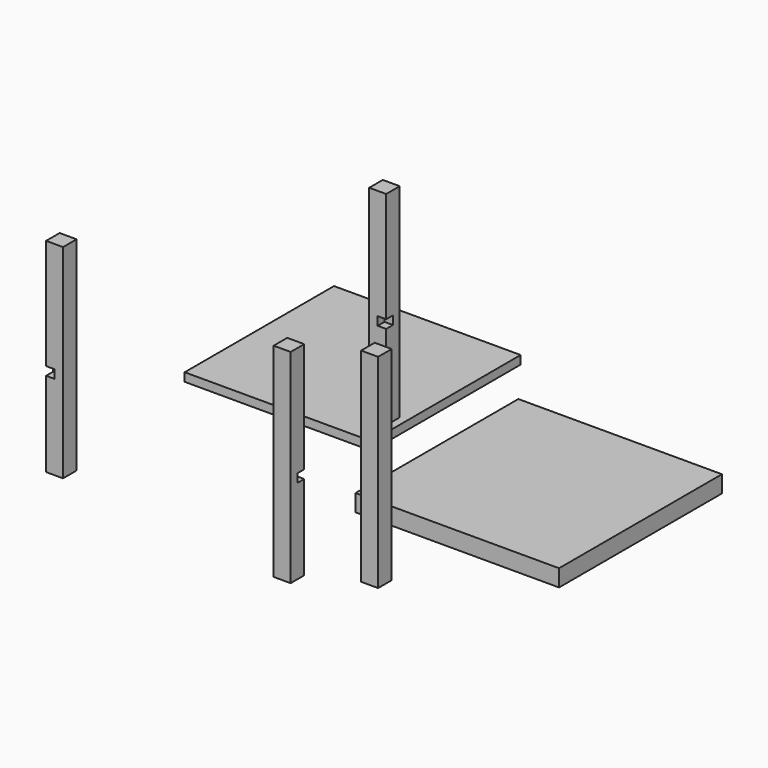
from build123d import *

# Parameters (mm, degrees)
F0_W      = 25.4
F0_H      = 25.4
F0_W_2    = 50.8
F0_W_3    = 457.2
F0_H_2    = 50.8
F0_H_3    = 457.2
F1_DEPTH  = 50.8
F2_DEPTH  = 38.1
F3_DEPTH  = 38.1
F4_DEPTH  = 38.1
F5_DEPTH  = 38.1
F6_W      = 25.4
F6_H      = 25.4
F7_DEPTH  = 609.6
F8_W      = 25.4
F8_H      = 25.4
F9_DEPTH  = 609.6
F10_DEPTH = 609.6
F11_W     = 25.4
F11_H     = 25.4
F12_DEPTH = 609.6
F13_W     = 25.4
F13_H     = 25.4
F14_DEPTH = 609.6
F15_DEPTH = 609.6
F16_W     = 558.8
F16_H     = 558.8
F17_DEPTH = 25.4
F18_W     = 25.4
F18_H     = 25.4
F19_DEPTH = 25.4
F21_W     = 25.4
F21_H     = 25.4
F22_DEPTH = 25.4
F24_W     = 25.4
F24_H     = 25.4
F25_DEPTH = 25.4
F27_W     = 25.4
F27_H     = 25.4
F28_DEPTH = 25.4
F29_ANGLE = 45
F30_DEPTH = 25.4
F31_DEPTH = 25.4
F32_ANGLE = 90
F33_ANGLE = 135


with BuildPart() as f1:
    # F0 (on Top) → F1 (new body)
    with BuildSketch(Plane.XY):
        with Locations((-284.6480894744, 419.2517064326)):
            Rectangle(F0_W, F0_H)
        with Locations((299.5519105256, 419.2517064326)):
            Rectangle(F0_W, F0_H)
        with Locations((-284.6480894744, -164.9482935674)):
            Rectangle(F0_W, F0_H)
        with Locations((299.5519105256, -164.9482935674)):
            Rectangle(F0_W, F0_H)
        with Locations((-246.5480894744, 419.2517064326)):
            Rectangle(F0_W_2, F0_H)
        with Locations((7.4519105256, 419.2517064326)):
            Rectangle(F0_W_3, F0_H)
        with Locations((261.4519105256, 419.2517064326)):
            Rectangle(F0_W_2, F0_H)
        with Locations((-246.5480894744, -164.9482935674)):
            Rectangle(F0_W_2, F0_H)
        with Locations((7.4519105256, -164.9482935674)):
            Rectangle(F0_W_3, F0_H)
        with Locations((261.4519105256, -164.9482935674)):
            Rectangle(F0_W_2, F0_H)
        with Locations((-284.6480894744, 381.1517064326)):
            Rectangle(F0_W, F0_H_2)
        with Locations((-284.6480894744, 127.1517064326)):
            Rectangle(F0_W, F0_H_3)
        with Locations((-284.6480894744, -126.8482935674)):
            Rectangle(F0_W, F0_H_2)
        with Locations((299.5519105256, 381.1517064326)):
            Rectangle(F0_W, F0_H_2)
        with Locations((299.5519105256, 127.1517064326)):
            Rectangle(F0_W, F0_H_3)
        with Locations((299.5519105256, -126.8482935674)):
            Rectangle(F0_W, F0_H_2)
        with Locations((-246.5480894744, 127.1517064326)):
            Rectangle(F0_W_2, F0_H_3)
        with Locations((7.4519105256, 381.1517064326)):
            Rectangle(F0_W_3, F0_H_2)
        with Locations((261.4519105256, 127.1517064326)):
            Rectangle(F0_W_2, F0_H_3)
        with Locations((-246.5480894744, 381.1517064326)):
            Rectangle(F0_W_2, F0_H_2)
        with Locations((-246.5480894744, -126.8482935674)):
            Rectangle(F0_W_2, F0_H_2)
        with Locations((7.4519105256, 127.1517064326)):
            Rectangle(F0_W_3, F0_H_3)
        with Locations((7.4519105256, -126.8482935674)):
            Rectangle(F0_W_3, F0_H_2)
        with Locations((261.4519105256, -126.8482935674)):
            Rectangle(F0_W_2, F0_H_2)
        with Locations((261.4519105256, 381.1517064326)):
            Rectangle(F0_W_2, F0_H_2)
    extrude(amount=F1_DEPTH)

    # F0 (on Top) → F2 (cut)
    with BuildSketch(Plane.XY):
        with Locations((-246.5480894744, -126.8482935674)):
            Rectangle(F0_W_2, F0_H_2)
    extrude(amount=-F2_DEPTH, mode=Mode.SUBTRACT)

    # F0 (on Top) → F3 (cut)
    with BuildSketch(Plane.XY):
        with Locations((-246.5480894744, -126.8482935674)):
            Rectangle(F0_W_2, F0_H_2)
    extrude(amount=F3_DEPTH, mode=Mode.SUBTRACT)

    # F0 (on Top) → F4 (cut)
    with BuildSketch(Plane.XY):
        with Locations((261.4519105256, -126.8482935674)):
            Rectangle(F0_W_2, F0_H_2)
    extrude(amount=F4_DEPTH, mode=Mode.SUBTRACT)

    # F0 (on Top) → F5 (cut)
    with BuildSketch(Plane.XY):
        with Locations((-246.5480894744, 381.1517064326)):
            Rectangle(F0_W_2, F0_H_2)
    extrude(amount=F5_DEPTH, mode=Mode.SUBTRACT)

    # F0 (on Top) → F30 (join)
    with BuildSketch(Plane.XY):
        with Locations((261.4519105256, 381.1517064326)):
            Rectangle(F0_W_2, F0_H_2)
    extrude(amount=F30_DEPTH)

    # F0 (on Top) → F31 (cut)
    with BuildSketch(Plane.XY):
        with Locations((261.4519105256, 381.1517064326)):
            Rectangle(F0_W_2, F0_H_2)
    extrude(amount=F31_DEPTH, mode=Mode.SUBTRACT)


with BuildPart() as f7:
    # F6 (on face) → F7 (new body)
    with BuildSketch(Plane.XY.offset(50.8)):
        with Locations((-493.6751659632, 173.1995851017)):
            Rectangle(F6_W, F6_H)
        with Locations((-468.2751659632, 173.1995851017)):
            Rectangle(F6_W, F6_H)
        with Locations((-493.6751659632, 147.7995851017)):
            Rectangle(F6_W, F6_H)
        with Locations((-468.2751659632, 147.7995851017)):
            Rectangle(F6_W, F6_H)
    extrude(amount=F7_DEPTH)

    # F27 (on offset) → F28 (cut)
    with BuildSketch(Plane.YZ.offset(-455.5751659632)):
        with Locations((147.7995851017, 317.5)):
            Rectangle(F27_W, F27_H)
    extrude(amount=-F28_DEPTH, mode=Mode.SUBTRACT)


with BuildPart() as f9:
    # F8 (on Top) → F9 (new body)
    with BuildSketch(Plane.XY):
        with Locations((-229.513236475, -514.6153616277)):
            Rectangle(F8_W, F8_H)
        with Locations((-204.113236475, -514.6153616277)):
            Rectangle(F8_W, F8_H)
    extrude(amount=F9_DEPTH)

    # F8 (on Top) → F10 (join)
    with BuildSketch(Plane.XY):
        with Locations((-229.513236475, -514.6153616277)):
            Rectangle(F8_W, F8_H)
        with Locations((-204.113236475, -514.6153616277)):
            Rectangle(F8_W, F8_H)
        with Locations((-229.513236475, -540.0153616277)):
            Rectangle(F8_W, F8_H)
        with Locations((-204.113236475, -540.0153616277)):
            Rectangle(F8_W, F8_H)
    extrude(amount=F10_DEPTH)

    # F21 (on offset) → F22 (cut)
    with BuildSketch(Plane.YZ.offset(-191.413236475)):
        with Locations((-514.6153616277, 266.7)):
            Rectangle(F21_W, F21_H)
    extrude(amount=-F22_DEPTH, mode=Mode.SUBTRACT)


with BuildPart() as f12:
    # F11 (on Top) → F12 (new body)
    with BuildSketch(Plane.XY):
        with Locations((-976.6431536198, -508.7043218727)):
            Rectangle(F11_W, F11_H)
        with Locations((-951.2431536198, -508.7043218727)):
            Rectangle(F11_W, F11_H)
        with Locations((-976.6431536198, -483.3043218727)):
            Rectangle(F11_W, F11_H)
        with Locations((-951.2431536198, -483.3043218727)):
            Rectangle(F11_W, F11_H)
    extrude(amount=F12_DEPTH)

    # F18 (on face) → F19 (cut)
    with BuildSketch(Plane.YZ.offset(-938.5431536198)):
        with Locations((-508.7043218727, 266.7)):
            Rectangle(F18_W, F18_H)
    extrude(amount=-F19_DEPTH, mode=Mode.SUBTRACT)


with BuildPart() as f14:
    # F13 (on Top) → F14 (new body)
    with BuildSketch(Plane.XY):
        with Locations((-18.407859993, -391.3383118198)):
            Rectangle(F13_W, F13_H)
        with Locations((6.992140007, -391.3383118198)):
            Rectangle(F13_W, F13_H)
        with Locations((-18.407859993, -416.7383118198)):
            Rectangle(F13_W, F13_H)
        with Locations((6.992140007, -416.7383118198)):
            Rectangle(F13_W, F13_H)
    extrude(amount=F14_DEPTH)

    # F13 (on Top) → F15 (join)
    with BuildSketch(Plane.XY):
        with Locations((-18.407859993, -416.7383118198)):
            Rectangle(F13_W, F13_H)
    extrude(amount=F15_DEPTH)

    # F24 (on offset) → F25 (cut)
    with BuildSketch(Plane.XZ.offset(429.4383118198)):
        with Locations((6.992140007, 266.7)):
            Rectangle(F24_W, F24_H)
    extrude(amount=-F25_DEPTH, mode=Mode.SUBTRACT)


with BuildPart() as f17:
    # F16 (on Top) → F17 (new body)
    with BuildSketch(Plane.XY):
        with Locations((-742.2856390476, 368.0477765703)):
            Rectangle(F16_W, F16_H)
    extrude(amount=F17_DEPTH)


with BuildPart() as f14_1:
    # F29: moved
    add(f14.part.rotate(Axis((19.692140007, -429.4383118198, 127), (0, 0, -1)), F29_ANGLE))


with BuildPart() as f12_1:
    # F32: moved
    add(f12.part.rotate(Axis((-938.5431536198, -470.6043218727, 304.8), (0, 0, -1)), F32_ANGLE))


with BuildPart() as f14_2:
    # F33: moved
    add(f14_1.part.rotate(Axis((-16.2288844773, -393.5172873355, 304.8), (0, 0, -1)), F33_ANGLE))


solid = Compound([f1.part, f7.part, f9.part, f17.part, f12_1.part, f14_2.part])
